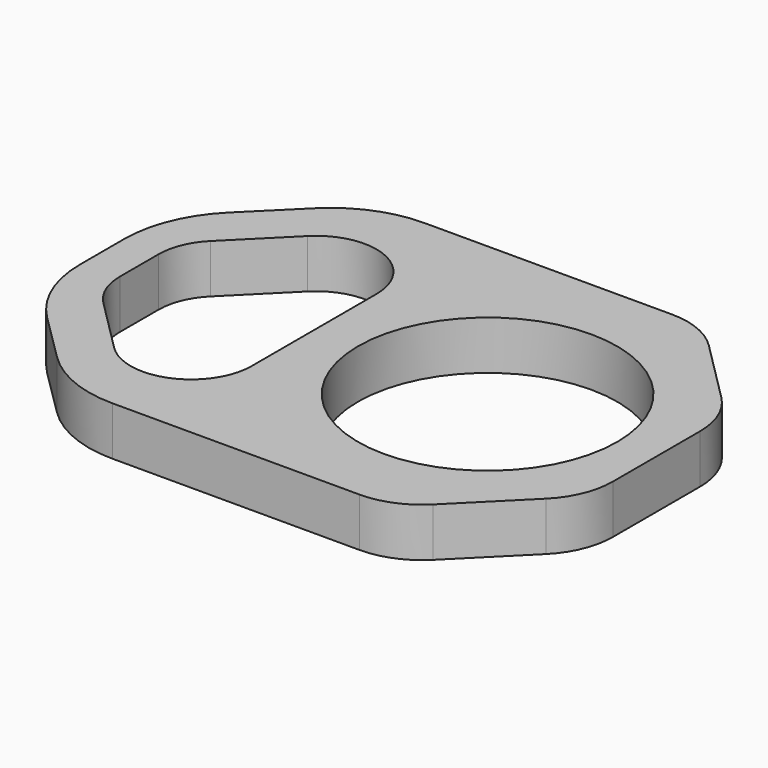
from build123d import *

# Parameters (mm, degrees)
F0_R     = 16.8656
F1_DEPTH = 6.35


with BuildPart() as f1:
    # F0 (on Top) → F1 (new body)
    with BuildSketch(Plane.XY):
        with BuildLine():
            ThreePointArc((69.431615, -39.890337), (71.634026, -36.594196), (72.40741, -32.706132))
            Line((72.40741, -32.706132), (72.40741, -18.516952))
            ThreePointArc((72.40741, -18.516952), (71.634026, -14.628888), (69.431615, -11.332747))
            Line((69.431615, -11.332747), (61.286205, -3.187337))
            ThreePointArc((61.286205, -3.187337), (57.990064, -0.984926), (54.102, -0.211542))
            Line((54.102, -0.211542), (21.914013, -0.211542))
            ThreePointArc((21.914013, -0.211542), (16.111142, -1.359548), (11.182513, -4.630613))
            Line((11.182513, -4.630613), (4.930193, -10.831261))
            ThreePointArc((4.930193, -10.831261), (1.482689, -15.956217), (0.27141, -22.012888))
            Line((0.27141, -22.012888), (0.27141, -29.210196))
            ThreePointArc((0.27141, -29.210196), (1.482689, -35.266867), (4.930193, -40.391823))
            Line((4.930193, -40.391823), (11.182513, -46.592471))
            ThreePointArc((11.182513, -46.592471), (16.111142, -49.863535), (21.914013, -51.011542))
            Line((21.914013, -51.011542), (54.102, -51.011542))
            ThreePointArc((54.102, -51.011542), (57.990064, -50.238158), (61.286205, -48.035747))
            Line((61.286205, -48.035747), (69.431615, -39.890337))
        make_face()
        with BuildLine():
            Line((27.85581, -15.451542), (27.85581, -35.771542))
            ThreePointArc((27.85581, -35.771542), (25.549569, -41.339301), (19.98181, -43.645542))
            ThreePointArc((19.98181, -43.645542), (16.96856, -43.046169), (14.414051, -41.339301))
            Line((14.414051, -41.339301), (7.403651, -34.328901))
            ThreePointArc((7.403651, -34.328901), (5.696782, -31.774391), (5.09741, -28.761142))
            Line((5.09741, -28.761142), (5.09741, -22.461942))
            ThreePointArc((5.09741, -22.461942), (5.696782, -19.448693), (7.403651, -16.894183))
            Line((7.403651, -16.894183), (14.414051, -9.883783))
            ThreePointArc((14.414051, -9.883783), (22.995059, -8.176915), (27.85581, -15.451542))
        make_face(mode=Mode.SUBTRACT)
        with Locations((50.43641, -25.611542)):
            Circle(F0_R, mode=Mode.SUBTRACT)
    extrude(amount=F1_DEPTH)


solid = f1.part
